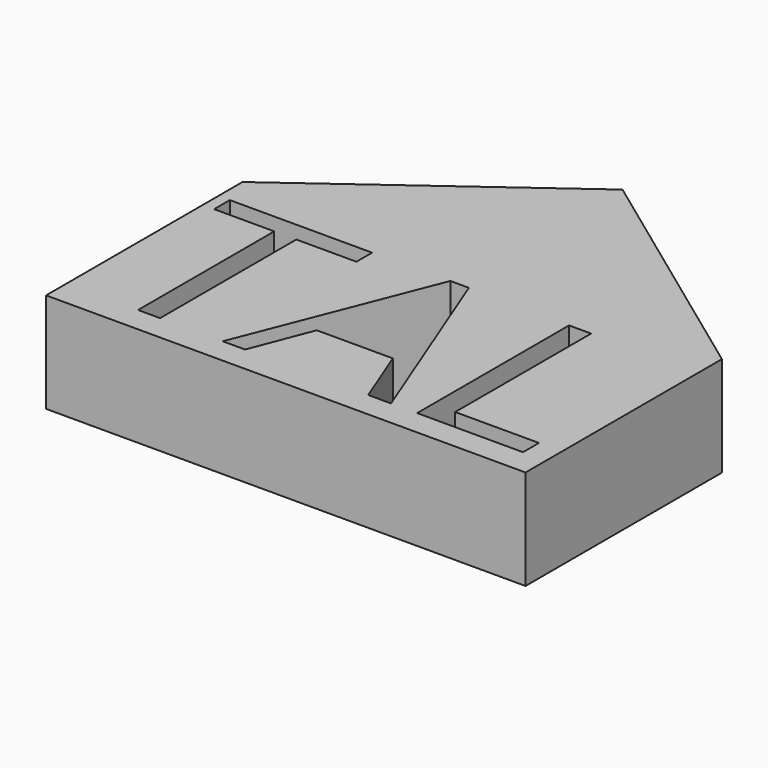
from build123d import *

# Parameters (mm, degrees)
F1_DEPTH = 25
F0_W     = 119.9337523431
F0_H     = 61.4086027442
F2_DEPTH = 25
F3_DEPTH = 25


with BuildPart() as f1:
    # F0 (on Top) → F1 (new body)
    with BuildSketch(Plane.XY):
        Polygon((-59.9668761715, 30.7043013721), (59.9668761715, 30.7043013721), (0, 74.5766162872), align=None)
    extrude(amount=F1_DEPTH)

    # F0 (on Top) → F2 (join)
    with BuildSketch(Plane.XY):
        Rectangle(F0_W, F0_H)
        Polygon((-36.5568330017, 18.276524249), (-36.5568330017, -24.3145190179), (-42.0769316042, -24.3145190179), (-42.0769316042, 18.276524249), (-57.1194601879, 18.276524249), (-57.1194601879, 23.1832785624), (-21.514304418, 23.1832785624), (-21.514304418, 18.276524249), align=None, mode=Mode.SUBTRACT)
        Polygon((21.2118825059, -24.3145190179), (15.4942662508, -24.3145190179), (9.5791323434, -9.2096164388), (-9.4553319529, -9.2096164388), (-15.2976961989, -24.3145190179), (-20.8905644629, -24.3145190179), (-2.1159918146, 23.3807962149), (2.5308708508, 23.3807962149), align=None, mode=Mode.SUBTRACT)
        Polygon((54.2181217962, -24.3145190179), (27.7403607025, -24.3145190179), (27.7403607025, 23.1832785624), (33.2604593051, 23.1832785624), (33.2604593051, -19.3142037113), (54.2181217962, -19.3142037113), align=None, mode=Mode.SUBTRACT)
        Polygon((-59.9668761715, 30.7043013721), (59.9668761715, 30.7043013721), (0, 74.5766162872), align=None)
    extrude(amount=F2_DEPTH)

    # F0 (on Top) → F3 (join)
    with BuildSketch(Plane.XY):
        Rectangle(F0_W, F0_H)
        Polygon((-36.5568330017, 18.276524249), (-36.5568330017, -24.3145190179), (-42.0769316042, -24.3145190179), (-42.0769316042, 18.276524249), (-57.1194601879, 18.276524249), (-57.1194601879, 23.1832785624), (-21.514304418, 23.1832785624), (-21.514304418, 18.276524249), align=None, mode=Mode.SUBTRACT)
        Polygon((21.2118825059, -24.3145190179), (15.4942662508, -24.3145190179), (9.5791323434, -9.2096164388), (-9.4553319529, -9.2096164388), (-15.2976961989, -24.3145190179), (-20.8905644629, -24.3145190179), (-2.1159918146, 23.3807962149), (2.5308708508, 23.3807962149), align=None, mode=Mode.SUBTRACT)
        Polygon((54.2181217962, -24.3145190179), (27.7403607025, -24.3145190179), (27.7403607025, 23.1832785624), (33.2604593051, 23.1832785624), (33.2604593051, -19.3142037113), (54.2181217962, -19.3142037113), align=None, mode=Mode.SUBTRACT)
    extrude(amount=F3_DEPTH)


solid = f1.part
